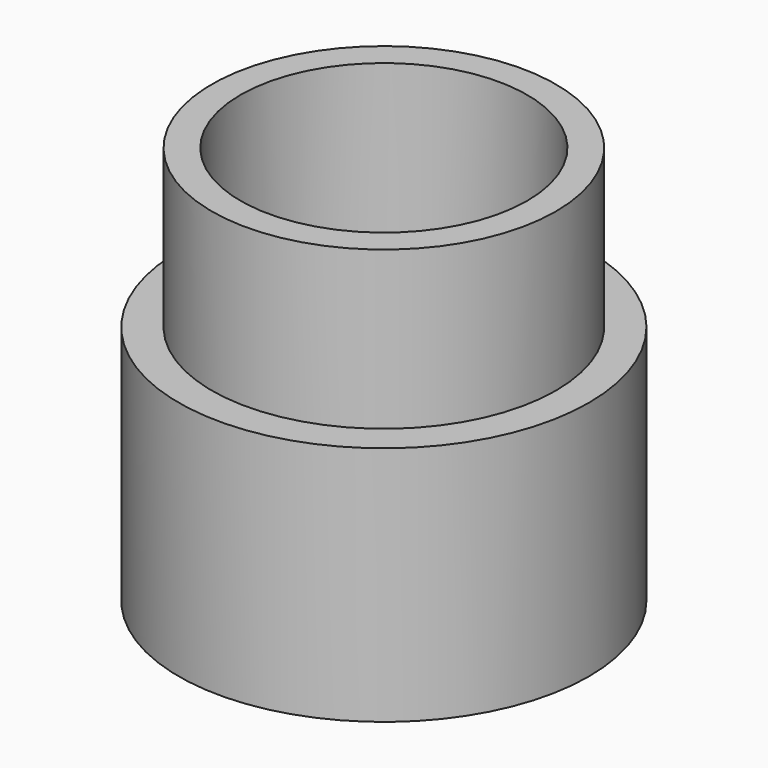
from build123d import *

# Parameters (mm, degrees)
F1_R     = 35.75
F2_DEPTH = 42
F0_R     = 30.75
F3_DEPTH = 37
F5_R     = 30
F5_R_2   = 25
F6_DEPTH = 27.5
F4_R     = 25
F7_DEPTH = 25


with BuildPart() as f2:
    # F1 (on Top) → F2 (new body)
    with BuildSketch(Plane.XY):
        Circle(F1_R)
    extrude(amount=F2_DEPTH)

    # F0 (on Top) → F3 (cut)
    with BuildSketch(Plane.XY):
        Circle(F0_R)
    extrude(amount=F3_DEPTH, mode=Mode.SUBTRACT)

    # F4 (on face) → F7 (cut)
    with BuildSketch(Plane.XY.offset(42)):
        Circle(F4_R)
    extrude(amount=-F7_DEPTH, mode=Mode.SUBTRACT)


with BuildPart() as f6:
    # F5 (on face) → F6 (new body)
    with BuildSketch(Plane.XY.offset(42)):
        Circle(F5_R)
        Circle(F5_R_2, mode=Mode.SUBTRACT)
    extrude(amount=F6_DEPTH)


solid = Compound([f2.part, f6.part])
